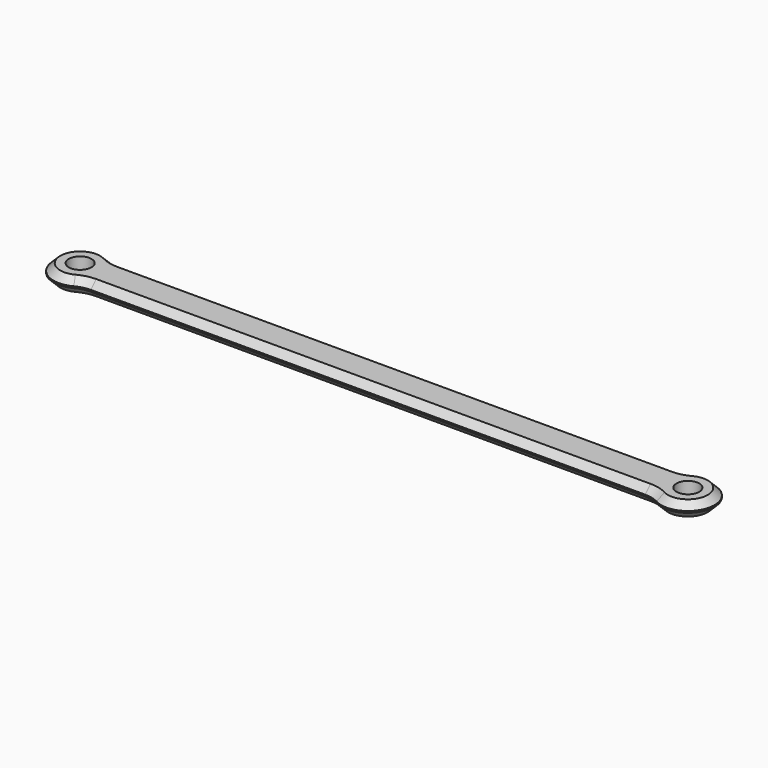
from build123d import *

# Parameters (mm, degrees)
F0_R     = 2.38125
F1_DEPTH = 3.175
F2_R     = 6.35
F3_SIZE  = 1.4111111111


with BuildPart() as f1:
    # F0 (on Top) → F1 (new body)
    with BuildSketch(Plane.XY):
        with BuildLine():
            Line((123.3248860695, 4.1671875), (3.6751139305, 4.1671875))
            ThreePointArc((3.6751139305, 4.1671875), (-5.55625, 0), (3.6751139305, -4.1671875))
            Line((3.6751139305, -4.1671875), (123.3248860695, -4.1671875))
            ThreePointArc((123.3248860695, -4.1671875), (132.55625, 0), (123.3248860695, 4.1671875))
        make_face()
        Circle(F0_R, mode=Mode.SUBTRACT)
        with Locations((127, 0)):
            Circle(F0_R, mode=Mode.SUBTRACT)
    extrude(amount=F1_DEPTH)

    # F2
    f2_edges = [f1.edges().sort_by_distance(p)[0] for p in [
        (3.675114, 4.167187, 1.5875),
        (3.675114, -4.167188, 1.5875),
        (123.324886, -4.167187, 1.5875),
        (123.324886, 4.167187, 1.5875),
    ]]
    fillet(f2_edges, radius=F2_R)

    # F3
    f3_edges = [f1.edges().sort_by_distance(p)[0] for p in [
        (63.5, 4.167187, 3.175),
        (63.5, 4.167187, 0),
    ]]
    chamfer(f3_edges, length=F3_SIZE)


solid = f1.part
